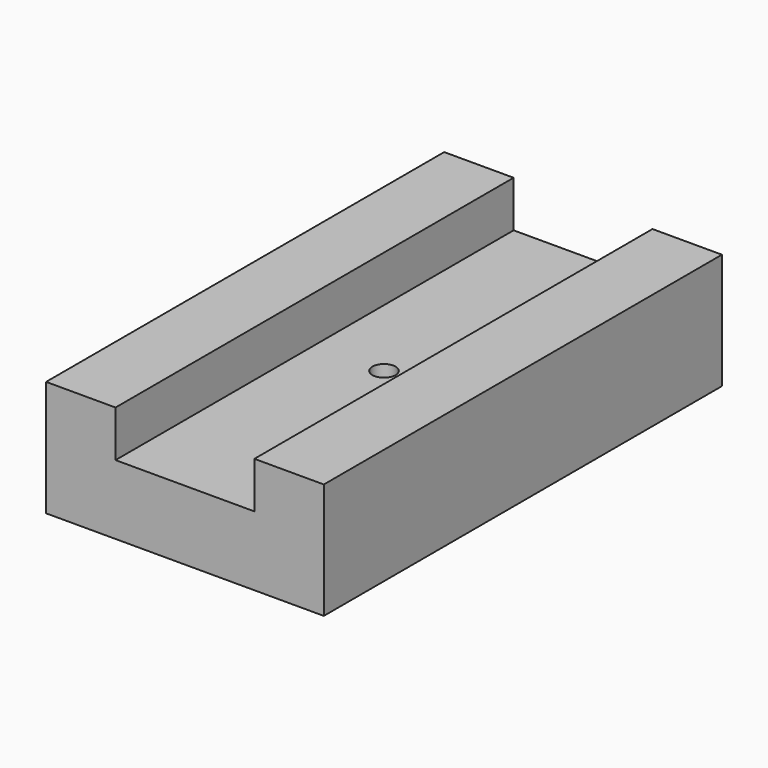
from build123d import *

# Parameters (mm, degrees)
F0_W     = 76.2
F0_H     = 136.525
F1_DEPTH = 31.75
F2_W     = 38.1
F2_H     = 136.525
F3_DEPTH = 12.7
F5_R     = 9.525
F6_DEPTH = 12.7
F4_R     = 3.175
F7_DEPTH = 254


with BuildPart() as f1:
    # F0 (on Top) → F1 (new body)
    with BuildSketch(Plane.XY):
        Rectangle(F0_W, F0_H)
    extrude(amount=F1_DEPTH)

    # F2 (on face) → F3 (cut)
    with BuildSketch(Plane.XY.offset(31.75)):
        Rectangle(F2_W, F2_H)
    extrude(amount=-F3_DEPTH, mode=Mode.SUBTRACT)

    # F5 (on face) → F6 (cut)
    with BuildSketch(Plane(origin=(0, 0, 0), x_dir=(1, 0, 0), z_dir=(0, 0, -1))):
        Circle(F5_R)
    extrude(amount=-F6_DEPTH, mode=Mode.SUBTRACT)

    # F4 (on face) → F7 (cut)
    with BuildSketch(Plane.XY.offset(19.05)):
        Circle(F4_R)
    extrude(amount=-F7_DEPTH, mode=Mode.SUBTRACT)


solid = f1.part
